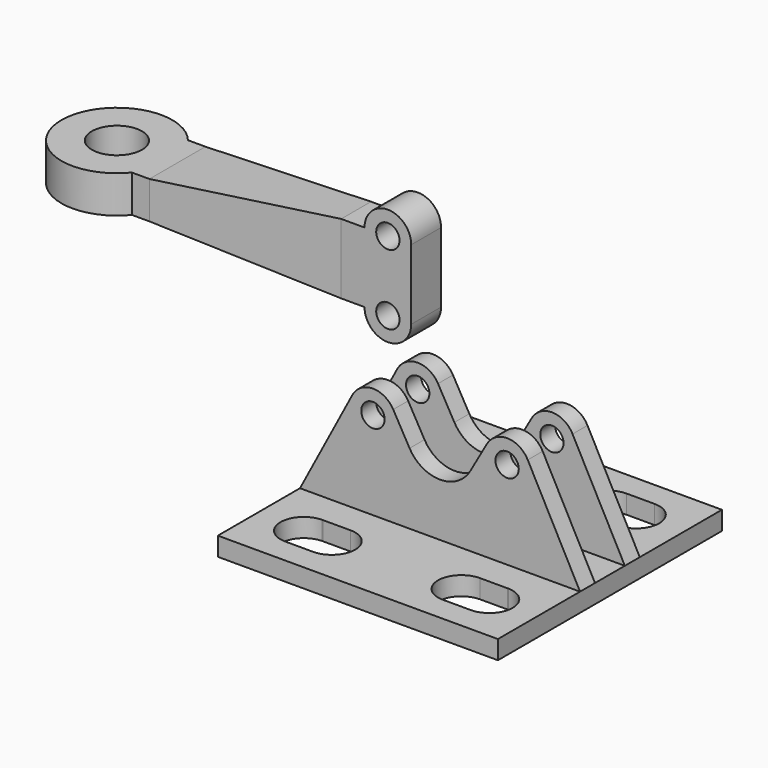
from build123d import *

# Parameters (mm, degrees)
F0_W       = 24
F0_H       = 24
F1_DEPTH   = 1.6
F2_W       = 24
F2_H       = 1.6
F3_DEPTH   = 15.5
F4_R       = 1
F5_DEPTH   = 15.201
F7_DEPTH   = 3.2
F9_R       = 2.15
F10_DEPTH  = 1.6
F10_FACE_W = 6
F10_FACE_H = 3.2
F7_FACE_W  = 3.2
F7_FACE_H  = 6


with BuildPart() as f1:
    # F0 (on Top) → F1 (new body)
    with BuildSketch(Plane.XY):
        Rectangle(F0_W, F0_H)
        with BuildLine():
            ThreePointArc((-5.5506757605, -5.8500001142), (-3.5500000282, -7.84966427), (-5.5500043004, -9.85))
            Line((-5.5500043004, -9.85), (-7.9454609594, -9.8499948493))
            ThreePointArc((-7.9454609594, -9.8499948493), (-9.9497584372, -7.8810836398), (-8.007622763, -5.850830268))
            ThreePointArc((-8.007622763, -5.850830268), (-7.9506757605, -5.8500001142), (-7.8937282099, -5.8507917853))
            Line((-7.8937282099, -5.8507917853), (-5.5506757605, -5.8500001142))
        make_face(mode=Mode.SUBTRACT)
        with BuildLine():
            ThreePointArc((7.8937282099, -5.8507917853), (7.9506757605, -5.8500001142), (8.007622763, -5.850830268))
            ThreePointArc((8.007622763, -5.850830268), (9.9497584372, -7.8810836398), (7.9454609594, -9.8499948493))
            Line((7.9454609594, -9.8499948493), (5.5500043004, -9.85))
            ThreePointArc((5.5500043004, -9.85), (3.5500000282, -7.84966427), (5.5506757605, -5.8500001142))
            Line((5.5506757605, -5.8500001142), (7.8937282099, -5.8507917853))
        make_face(mode=Mode.SUBTRACT)
        with BuildLine():
            ThreePointArc((-7.8937282099, 5.8507917853), (-7.9506757605, 5.8500001142), (-8.007622763, 5.850830268))
            ThreePointArc((-8.007622763, 5.850830268), (-9.9497584372, 7.8810836398), (-7.9454609594, 9.8499948493))
            Line((-7.9454609594, 9.8499948487), (-5.5500043004, 9.8499999994))
            ThreePointArc((-5.5500043004, 9.85), (-3.5500000282, 7.84966427), (-5.5506757605, 5.8500001142))
            Line((-5.5506757605, 5.8500001142), (-7.8937282099, 5.8507917853))
        make_face(mode=Mode.SUBTRACT)
        with BuildLine():
            ThreePointArc((5.5506757605, 5.8500001142), (3.5500000282, 7.84966427), (5.5500043004, 9.85))
            Line((5.5500043004, 9.8499999994), (7.9454609594, 9.8499948487))
            ThreePointArc((7.9454609594, 9.8499948493), (9.9497584372, 7.8810836398), (8.007622763, 5.850830268))
            ThreePointArc((8.007622763, 5.850830268), (7.9506757605, 5.8500001142), (7.8937282099, 5.8507917853))
            Line((7.8937282099, 5.8507917853), (5.5506757605, 5.8500001142))
        make_face(mode=Mode.SUBTRACT)
    extrude(amount=F1_DEPTH)

    # F2 (on face) → F3 (join)
    with BuildSketch(Plane.XY.offset(1.6)):
        with Locations((0, -2.4)):
            Rectangle(F2_W, F2_H)
        with Locations((0, 2.4)):
            Rectangle(F2_W, F2_H)
    extrude(amount=F3_DEPTH)

    # F4 (on face) → F5 (cut, through all)
    with BuildSketch(Plane.XZ.offset(3.2)):
        with BuildLine():
            ThreePointArc((-7.5184408181, 10.0841397501), (-5.7804998867, 11.1497674257), (-4.0108695652, 10.1376362341))
            Line((-4.0108695652, 10.1376362341), (-2.6086956522, 7.6685456489))
            ThreePointArc((-2.6086956522, 7.6685456489), (0, 6.15), (2.6086956522, 7.6685456489))
            Line((2.6086956522, 7.6685456489), (4.0108695652, 10.1376362341))
            ThreePointArc((4.0108695652, 10.1376362341), (5.7804998867, 11.1497674257), (7.5184408181, 10.0841397501))
            Line((7.5184408181, 10.0841397501), (12, 1.6))
            Line((12, 1.6), (12, 17.1))
            Line((12, 17.1), (-12, 17.1))
            Line((-12, 17.1), (-12, 1.6))
            Line((-12, 1.6), (-7.5184408181, 10.0841397501))
        make_face()
        with Locations((5.75, 9.15)):
            Circle(F4_R)
        with Locations((-5.75, 9.15)):
            Circle(F4_R)
    extrude(amount=-F5_DEPTH, mode=Mode.SUBTRACT)


with BuildPart() as f7:
    # F6 (on face) → F7 (new body)
    with BuildSketch(Plane.XZ.offset(-1.6)):
        with BuildLine():
            Line((-9.75, 16), (-7.75, 16))
            ThreePointArc((-7.75, 16), (-5.75, 14), (-3.75, 16))
            Line((-3.75, 16), (-3.75, 22))
            ThreePointArc((-3.75, 22), (-5.75, 24), (-7.75, 22))
            Line((-7.75, 22), (-9.75, 22))
            Line((-9.75, 22), (-9.75, 16))
        make_face()
        with BuildLine():
            ThreePointArc((-4.75, 16), (-5.75, 15), (-6.75, 16))
            ThreePointArc((-6.75, 16), (-5.75, 17), (-4.75, 16))
        make_face(mode=Mode.SUBTRACT)
        with BuildLine():
            ThreePointArc((-4.75, 22), (-5.75, 21), (-6.75, 22))
            ThreePointArc((-6.75, 22), (-5.75, 23), (-4.75, 22))
        make_face(mode=Mode.SUBTRACT)
    extrude(amount=F7_DEPTH)



with BuildPart() as f10:
    # F9 (on offset) → F10 (new body, symmetric)
    with BuildSketch(Plane.XY.offset(19)):
        with BuildLine():
            Line((-25.0672700343, 3), (-26.5672700343, 3))
            ThreePointArc((-26.5672700343, 3), (-35, 0), (-26.5672700343, -3))
            Line((-26.5672700343, -3), (-25.0672700343, -3))
            Line((-25.0672700343, -3), (-25.0672700343, 3))
        make_face()
        with Locations((-30.25, 0)):
            Circle(F9_R, mode=Mode.SUBTRACT)
    extrude(amount=F10_DEPTH, both=True)


with BuildPart() as f7_1:
    add(f7.part)

    add(f10.part)  # F11 merges F10
    # F10_face (on face) → F11 section 0
    with BuildSketch(Plane(origin=(-25.0672700343, 0, 19), x_dir=(0, 1, 0), z_dir=(1, 0, 0))):
        Rectangle(F10_FACE_W, F10_FACE_H)
    # F7_face (on face) → F11 section 1
    with BuildSketch(Plane(origin=(-9.75, 0, 19), x_dir=(0, -1, 0), z_dir=(-1, 0, 0))):
        Rectangle(F7_FACE_W, F7_FACE_H)
    loft()


solid = Compound([f1.part, f7_1.part])
